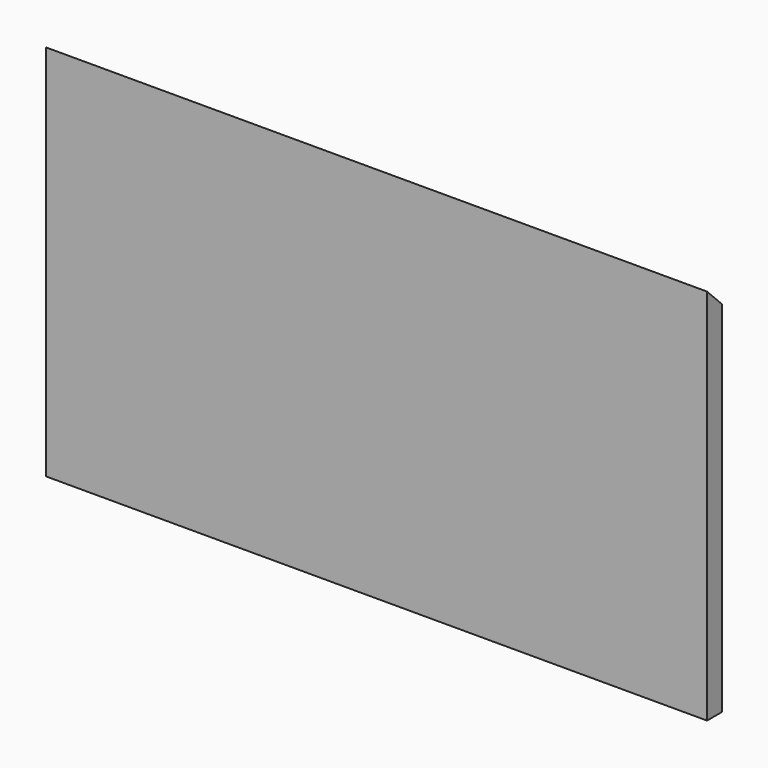
from build123d import *

# Parameters (mm, degrees)
F0_W     = 177.8
F0_H     = 101.6
F1_DEPTH = 5
F3_DEPTH = 177.801


with BuildPart() as f1:
    # F0 (on Front) → F1 (new body)
    with BuildSketch(Plane.XZ):
        Rectangle(F0_W, F0_H)
    extrude(amount=F1_DEPTH)

    # F2 (on face) → F3 (cut, through all)
    with BuildSketch(Plane.YZ.offset(88.9)):
        Polygon((0, 50.8), (-5, 50.8), (0, 45.8), align=None)
    extrude(amount=-F3_DEPTH, mode=Mode.SUBTRACT)


solid = f1.part
